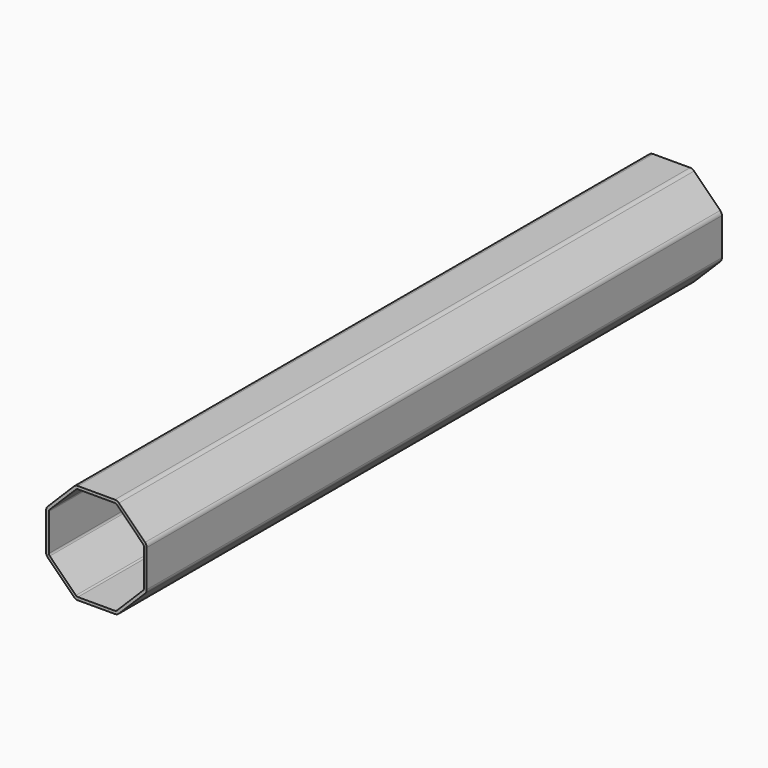
from build123d import *

# Parameters (mm, degrees)
F1_DEPTH = 500
F2_R     = 4
F3_R     = 2


with BuildPart() as f1:
    # F0 (on Front) → F1 (new body)
    with BuildSketch(Plane.XZ):
        Polygon((14.497475, 35), (-14.497475, 35), (-35, 14.497475), (-35, -14.497475), (-14.497475, -35), (14.497475, -35), (35, -14.497475), (35, 14.497475), align=None)
        Polygon((-13.669048, -33), (-33, -13.669048), (-33, 13.669048), (-13.669048, 33), (13.669048, 33), (33, 13.669048), (33, -13.669048), (13.669048, -33), align=None, mode=Mode.SUBTRACT)
    extrude(amount=F1_DEPTH)

    # F2
    f2_edges = [f1.edges().sort_by_distance(p)[0] for p in [
        (14.497475, -250, 35),
        (-14.497475, -250, 35),
        (35, -250, 14.497475),
        (35, -250, -14.497475),
        (14.497475, -250, -35),
        (-14.497475, -250, -35),
        (-35, -250, -14.497475),
        (-35, -250, 14.497475),
    ]]
    fillet(f2_edges, radius=F2_R)

    # F3
    f3_edges = [f1.edges().sort_by_distance(p)[0] for p in [
        (33, -250, 13.669048),
        (33, -250, -13.669048),
        (13.669048, -250, -33),
        (-13.669048, -250, -33),
        (-33, -250, -13.669048),
        (-33, -250, 13.669048),
        (-13.669048, -250, 33),
        (13.669048, -250, 33),
    ]]
    fillet(f3_edges, radius=F3_R)


solid = f1.part
